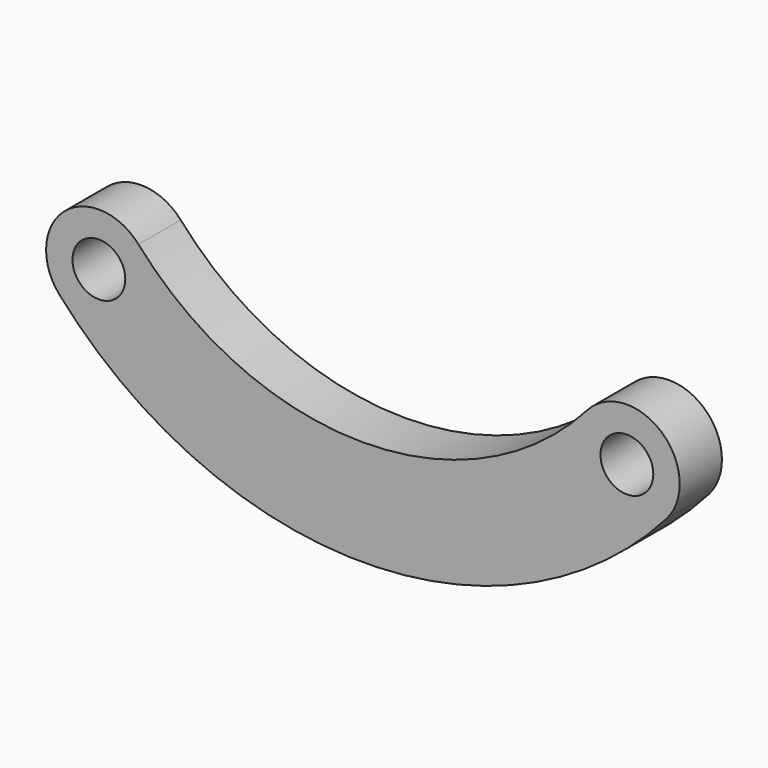
from build123d import *

# Parameters (mm, degrees)
F0_R     = 9.525
F1_DEPTH = 19.05


with BuildPart() as f1:
    # F0 (on Front) → F1 (new body)
    with BuildSketch(Plane.XZ):
        with BuildLine():
            ThreePointArc((14.2875, 12.600391), (-12.600391, 14.2875), (-14.2875, -12.600391))
            ThreePointArc((-14.2875, -12.600391), (95.25, -62.047396), (204.7875, -12.600391))
            ThreePointArc((204.7875, -12.600391), (203.100391, 14.2875), (176.2125, 12.600391))
            ThreePointArc((176.2125, 12.600391), (95.25, -23.947396), (14.2875, 12.600391))
        make_face()
        Circle(F0_R, mode=Mode.SUBTRACT)
        with Locations((190.5, 0)):
            Circle(F0_R, mode=Mode.SUBTRACT)
    extrude(amount=F1_DEPTH)


solid = f1.part
